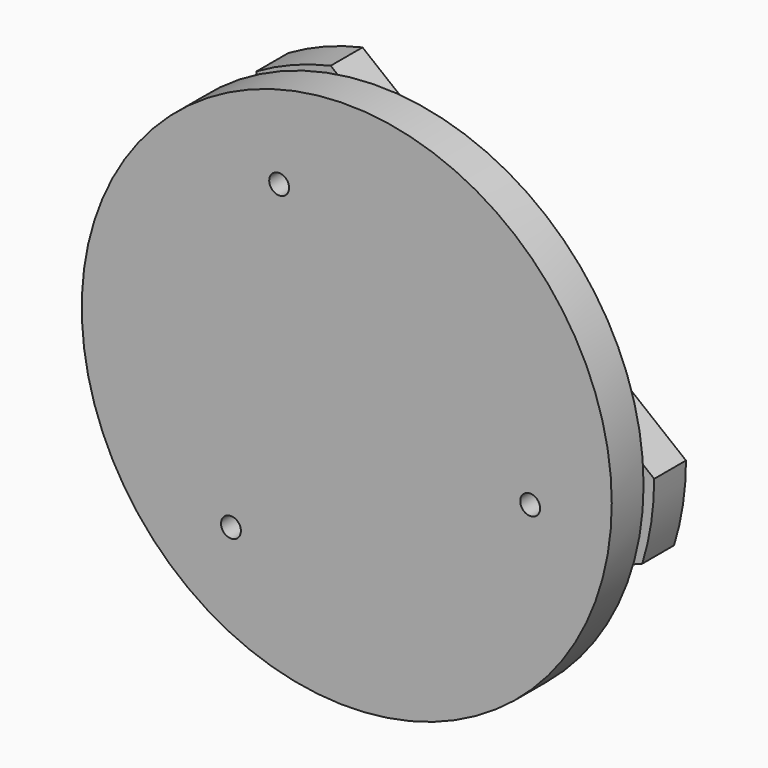
from build123d import *

# Parameters (mm, degrees)
F0_R     = 4.7625
F0_R_2   = 38.1
F1_DEPTH = 19.05
F3_R     = 127
F3_R_2   = 4.7625
F4_DEPTH = 19.05


with BuildPart() as f1:
    # F0 (on Front) → F1 (new body)
    with BuildSketch(Plane.XZ):
        with BuildLine():
            Line((-63.5, 109.985226), (-93.264756, -86.201423))
            ThreePointArc((-93.264756, -86.201423), (-79.279345, -99.215853), (-63.5, -109.985226))
            Line((-63.5, -109.985226), (121.285, -37.668936))
            ThreePointArc((121.285, -37.668936), (125.563122, -19.05), (127, 0))
            Line((127, 0), (-28.020244, 123.870359))
            ThreePointArc((-28.020244, 123.870359), (-46.283777, 118.265853), (-63.5, 109.985226))
        make_face()
        with Locations((-55.495541, -69.451097)):
            Circle(F0_R, mode=Mode.SUBTRACT)
        with Locations((-43.60364, -54.568719)):
            Circle(F0_R, mode=Mode.SUBTRACT)
        Circle(F0_R_2, mode=Mode.SUBTRACT)
        with Locations((69.059717, -10.4775)):
            Circle(F0_R, mode=Mode.SUBTRACT)
        with Locations((87.894185, -13.335)):
            Circle(F0_R, mode=Mode.SUBTRACT)
        with Locations((-25.456077, 65.046219)):
            Circle(F0_R, mode=Mode.SUBTRACT)
        with Locations((-32.398644, 82.786097)):
            Circle(F0_R, mode=Mode.SUBTRACT)
    extrude(amount=F1_DEPTH)


with BuildPart() as f4:
    # F3 (on offset) → F4 (new body)
    with BuildSketch(Plane.XZ.offset(25.4)):
        Circle(F3_R)
        with Locations((-55.495541, -69.451097)):
            Circle(F3_R_2, mode=Mode.SUBTRACT)
        with Locations((87.894185, -13.335)):
            Circle(F3_R_2, mode=Mode.SUBTRACT)
        with Locations((-32.398644, 82.786097)):
            Circle(F3_R_2, mode=Mode.SUBTRACT)
    extrude(amount=F4_DEPTH)


solid = Compound([f1.part, f4.part])
